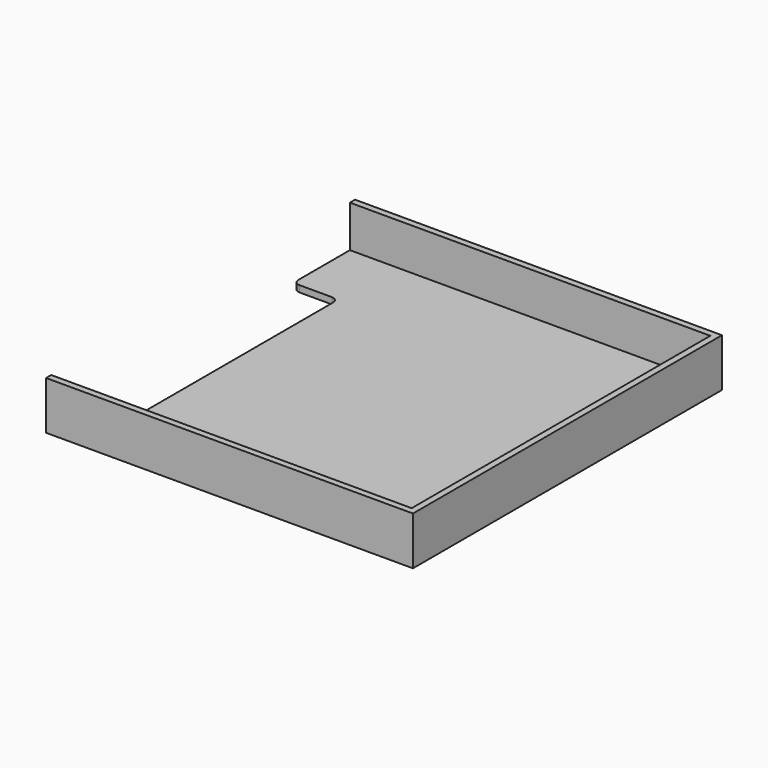
from build123d import *

# Parameters (mm, degrees)
BOX070_W     = 1.4
BOX070_H     = 8.6
BOX070_DEPTH = 0.2
FILLET019_R  = 0.2
BOX069_W     = 11.2
BOX069_H     = 11.6
BOX069_DEPTH = 1.3
BOX068_W     = 11.4
BOX068_H     = 12
BOX068_DEPTH = 1.5
FILLET020_R  = 0.2


with BuildPart() as fillet021:
    # Box070 → Box070 (new body)
    with BuildSketch(Plane(origin=(0, 1, 0), x_dir=(1, 0, 0), z_dir=(0, 0, 1))):
        with Locations((0.7, 4.3)):
            Rectangle(BOX070_W, BOX070_H)
    extrude(amount=BOX070_DEPTH)

    # Fillet019
    fillet019_edges = [fillet021.edges().sort_by_distance(p)[0] for p in [
        (1.4, 1, 0.1),
        (1.4, 9.6, 0.1),
    ]]
    fillet(fillet019_edges, radius=FILLET019_R)


with BuildPart() as fusion052:
    # Box069 → Box069 (new body)
    with BuildSketch(Plane(origin=(0, 0.2, 0.2), x_dir=(1, 0, 0), z_dir=(0, 0, 1))):
        with Locations((5.6, 5.8)):
            Rectangle(BOX069_W, BOX069_H)
    extrude(amount=BOX069_DEPTH)

    # Fusion052: union Fillet021
    add(fillet021.part)


with BuildPart() as sd_card_slot:
    # Box068 → Box068 (new body)
    with BuildSketch(Plane.XY):
        with Locations((5.7, 6)):
            Rectangle(BOX068_W, BOX068_H)
    extrude(amount=BOX068_DEPTH)

    # Cut017: cut Fusion052
    add(fusion052.part, mode=Mode.SUBTRACT)

    # Fillet020
    fillet020_edges = [sd_card_slot.edges().sort_by_distance(p)[0] for p in [
        (0, 1, 0.1),
        (0, 9.6, 0.1),
    ]]
    fillet(fillet020_edges, radius=FILLET020_R)


with BuildPart() as sd_card_slot_1:
    # Fillet020 placement: moved
    add(sd_card_slot.part.moved(Location((1.7, 22, -1.5))))


solid = sd_card_slot_1.part
